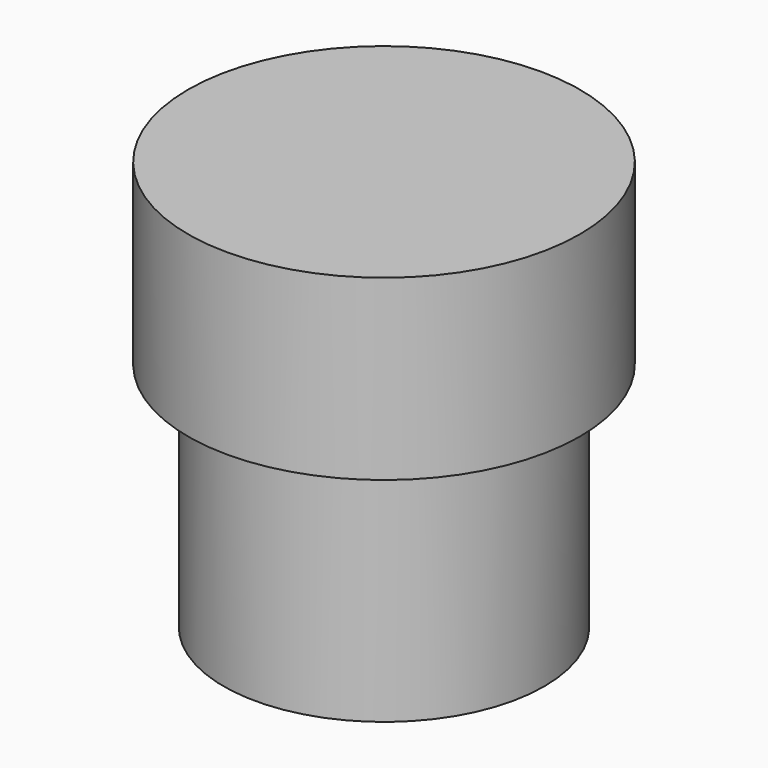
from build123d import *

# Parameters (mm, degrees)
CYLINDER003_R     = 5.5
CYLINDER003_DEPTH = 5
CYLINDER002_R     = 4.5
CYLINDER002_DEPTH = 6.6


with BuildPart() as centre002:
    # Cylinder003 → Cylinder003 (new body)
    with BuildSketch(Plane.XY.offset(-2.5)):
        Circle(CYLINDER003_R)
    extrude(amount=CYLINDER003_DEPTH)


with BuildPart() as worm_driven_gear:
    # Cylinder002 → Cylinder002 (new body)
    with BuildSketch(Plane.XY.offset(-9)):
        Circle(CYLINDER002_R)
    extrude(amount=CYLINDER002_DEPTH)

    # Fusion: union centre002
    add(centre002.part)


with BuildPart() as worm_driven_gear_1:
    # Fusion placement: moved
    add(worm_driven_gear.part.moved(Location((0, 0, 25))))


solid = worm_driven_gear_1.part
